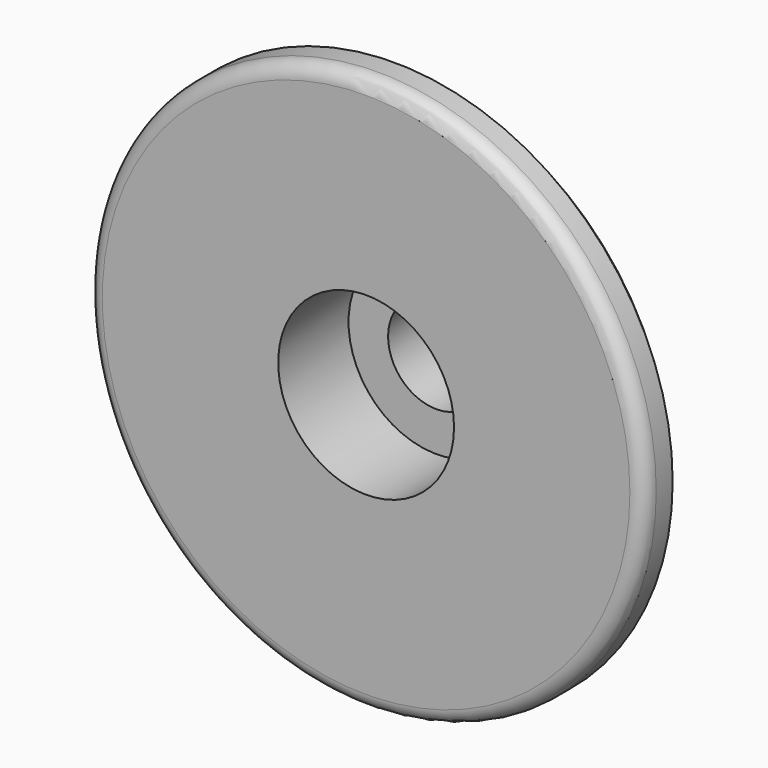
from build123d import *

# Parameters (mm, degrees)
F0_R           = 9.5
F1_DEPTH       = 1.7
F2_R           = 3.95
F3_DEPTH       = 3.5
F4_SIZE        = 0.5
F5_R           = 0.5
F7_D           = 3.3
F7_CBORE_D     = 6
F7_CBORE_DEPTH = 3


with BuildPart() as f1:
    # F0 (on Front) → F1 (new body)
    with BuildSketch(Plane.XZ):
        Circle(F0_R)
    extrude(amount=F1_DEPTH)

    # F2 (on Front) → F3 (join)
    with BuildSketch(Plane.XZ):
        Circle(F2_R)
    extrude(amount=-F3_DEPTH)

    # F4
    f4_edges = [f1.edges().sort_by_distance(p)[0] for p in [
        (-3.95, 3.5, 0),
        (-9.5, 0, 0),
    ]]
    chamfer(f4_edges, length=F4_SIZE)

    # F5
    f5_edges = [f1.edges().sort_by_distance(p)[0] for p in [
        (-9.5, -1.7, 0),
    ]]
    fillet(f5_edges, radius=F5_R)

    # F7 (through all)
    with Locations(Plane.XZ.offset(1.7)):
        with Locations((0, 0)):
            CounterBoreHole(F7_D / 2, F7_CBORE_D / 2, F7_CBORE_DEPTH)


solid = f1.part
